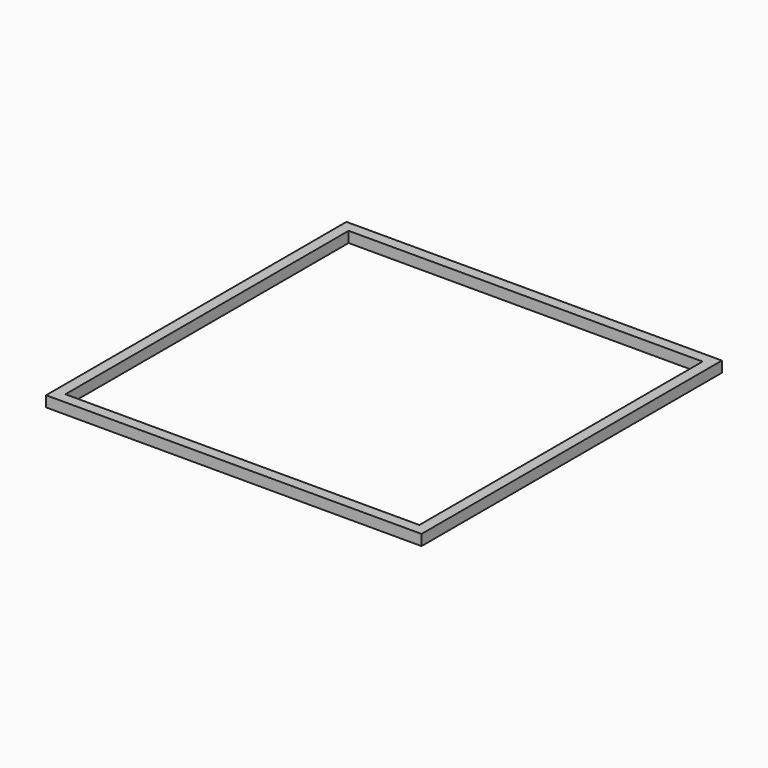
from build123d import *

# Parameters (mm, degrees)
F0_W     = 220
F0_H     = 220
F1_DEPTH = 6.3
F2_W     = 207.4
F2_H     = 207.4
F3_DEPTH = 6.301


with BuildPart() as f1:
    # F0 (on Top) → F1 (new body)
    with BuildSketch(Plane.XY):
        Rectangle(F0_W, F0_H)
    extrude(amount=-F1_DEPTH)

    # F2 (on face) → F3 (cut, through all)
    with BuildSketch(Plane.XY):
        Rectangle(F2_W, F2_H)
    extrude(amount=-F3_DEPTH, mode=Mode.SUBTRACT)


solid = f1.part
